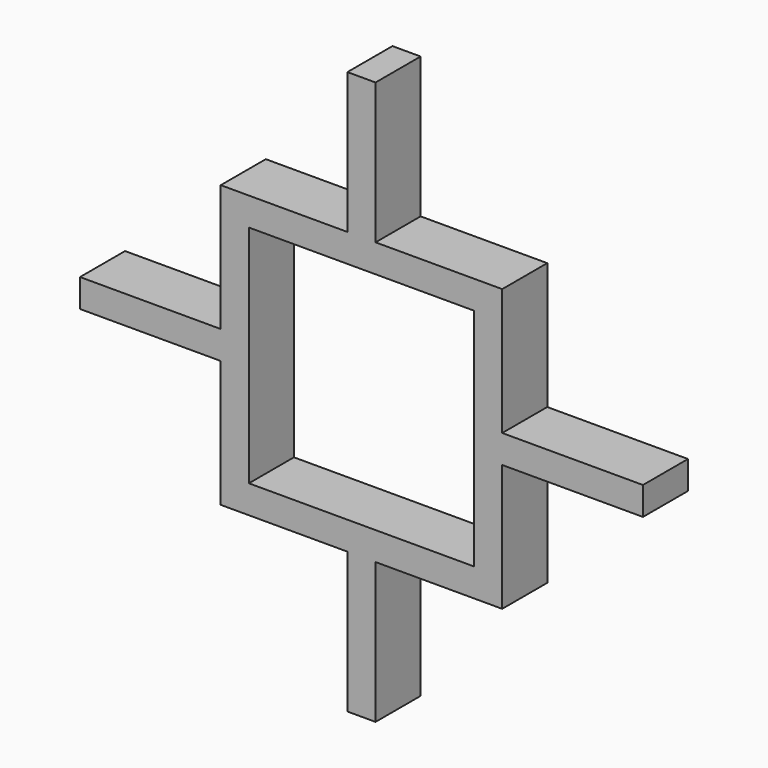
from build123d import *

# Parameters (mm, degrees)
F0_W     = 1
F0_H     = 10
F0_H_2   = 2
F0_W_2   = 7
F0_W_3   = 2
F0_H_3   = 7
F0_W_4   = 10
F0_H_4   = 1
F1_DEPTH = 4


with BuildPart() as f1:
    # F0 (on Front) → F1 (new body)
    with BuildSketch(Plane.XZ):
        with Locations((-0.5, 15)):
            Rectangle(F0_W, F0_H)
        with Locations((0.5, 15)):
            Rectangle(F0_W, F0_H)
        with Locations((0.5, 9)):
            Rectangle(F0_W, F0_H_2)
        with Locations((-0.5, 9)):
            Rectangle(F0_W, F0_H_2)
        with Locations((4.5, 9)):
            Rectangle(F0_W_2, F0_H_2)
        with Locations((-4.5, 9)):
            Rectangle(F0_W_2, F0_H_2)
        with Locations((9, 9)):
            Rectangle(F0_W_3, F0_H_2)
        with Locations((9, 4.5)):
            Rectangle(F0_W_3, F0_H_3)
        with Locations((9, -4.5)):
            Rectangle(F0_W_3, F0_H_3)
        with Locations((15, 0.5)):
            Rectangle(F0_W_4, F0_H_4)
        with Locations((15, -0.5)):
            Rectangle(F0_W_4, F0_H_4)
        with Locations((9, -0.5)):
            Rectangle(F0_W_3, F0_H_4)
        with Locations((9, 0.5)):
            Rectangle(F0_W_3, F0_H_4)
        with Locations((9, -9)):
            Rectangle(F0_W_3, F0_H_2)
        with Locations((4.5, -9)):
            Rectangle(F0_W_2, F0_H_2)
        with Locations((0.5, -9)):
            Rectangle(F0_W, F0_H_2)
        with Locations((-0.5, -9)):
            Rectangle(F0_W, F0_H_2)
        with Locations((0.5, -15)):
            Rectangle(F0_W, F0_H)
        with Locations((-0.5, -15)):
            Rectangle(F0_W, F0_H)
        with Locations((-4.5, -9)):
            Rectangle(F0_W_2, F0_H_2)
        with Locations((-9, -9)):
            Rectangle(F0_W_3, F0_H_2)
        with Locations((-9, -4.5)):
            Rectangle(F0_W_3, F0_H_3)
        with Locations((-9, 4.5)):
            Rectangle(F0_W_3, F0_H_3)
        with Locations((-9, 9)):
            Rectangle(F0_W_3, F0_H_2)
        with Locations((-9, 0.5)):
            Rectangle(F0_W_3, F0_H_4)
        with Locations((-9, -0.5)):
            Rectangle(F0_W_3, F0_H_4)
        with Locations((-15, 0.5)):
            Rectangle(F0_W_4, F0_H_4)
        with Locations((-15, -0.5)):
            Rectangle(F0_W_4, F0_H_4)
    extrude(amount=F1_DEPTH)


solid = f1.part
